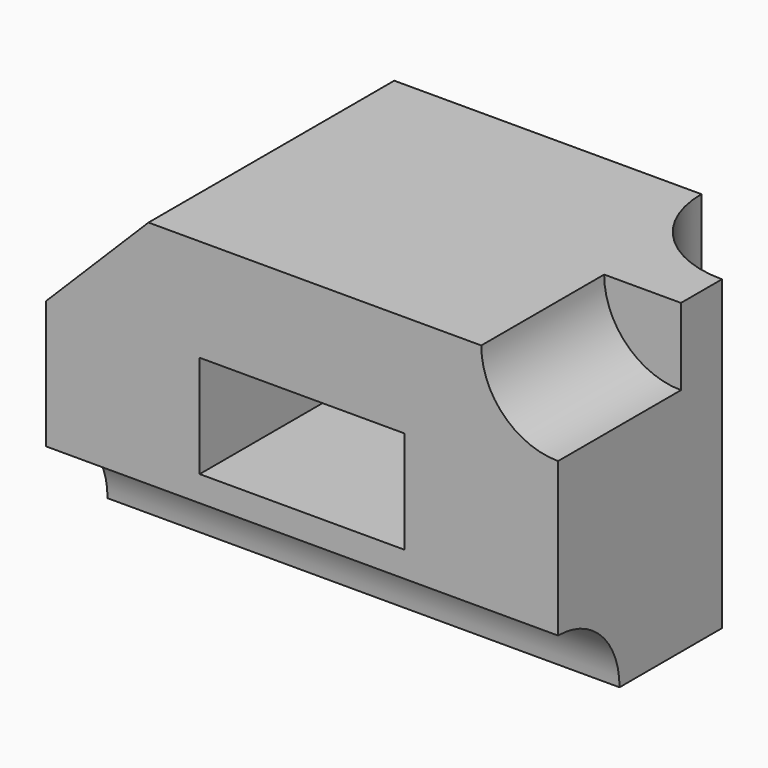
from build123d import *

# Parameters (mm, degrees)
F0_W      = 50
F0_H      = 30
F1_DEPTH  = 30
F2_R      = 10
F3_DEPTH  = 30.001
F5_DEPTH  = 30.001
F6_W      = 20
F6_H      = 10
F7_DEPTH  = 20
F8_R      = 7.5
F9_DEPTH  = 50.001
F10_R     = 7.5
F11_DEPTH = 15


with BuildPart() as f1:
    # F0 (on Top) → F1 (new body)
    with BuildSketch(Plane.XY):
        with Locations((25, 15)):
            Rectangle(F0_W, F0_H)
    extrude(amount=F1_DEPTH)

    # F2 (on face) → F3 (cut, through all)
    with BuildSketch(Plane.XY.offset(30)):
        with Locations((50, 30)):
            Circle(F2_R)
    extrude(amount=-F3_DEPTH, mode=Mode.SUBTRACT)

    # F4 (on face) → F5 (cut, through all)
    with BuildSketch(Plane.XZ):
        Polygon((0, 20), (10, 30), (0, 30), align=None)
    extrude(amount=-F5_DEPTH, mode=Mode.SUBTRACT)

    # F6 (on face) → F7 (cut)
    with BuildSketch(Plane.XZ):
        with Locations((25, 15)):
            Rectangle(F6_W, F6_H)
    extrude(amount=-F7_DEPTH, mode=Mode.SUBTRACT)

    # F8 (on face) → F9 (cut, through all)
    with BuildSketch(Plane.YZ.offset(50)):
        Circle(F8_R)
    extrude(amount=-F9_DEPTH, mode=Mode.SUBTRACT)

    # F10 (on face) → F11 (cut)
    with BuildSketch(Plane.XZ):
        with Locations((50, 30)):
            Circle(F10_R)
    extrude(amount=-F11_DEPTH, mode=Mode.SUBTRACT)


solid = f1.part
